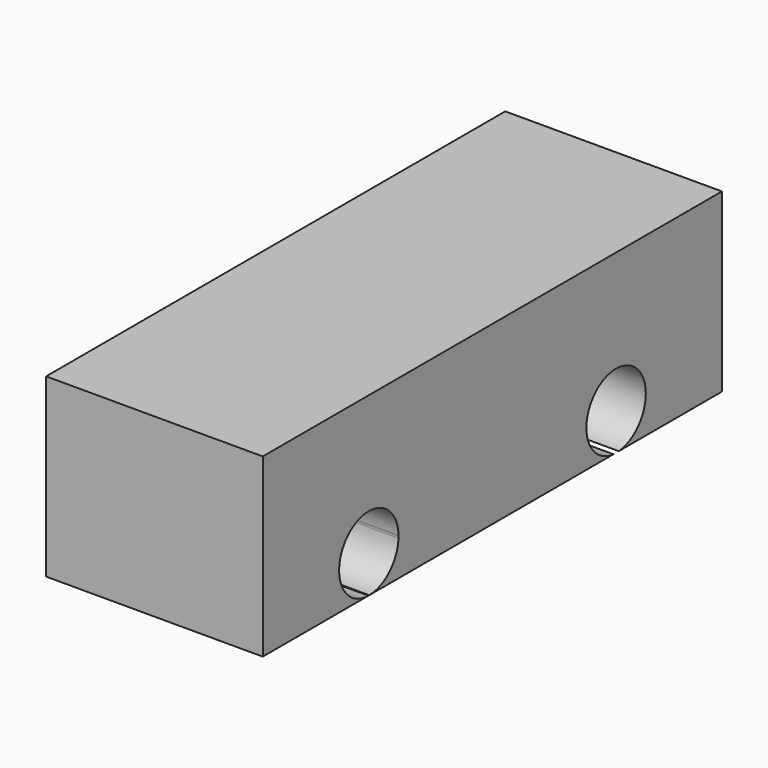
from build123d import *

# Parameters (mm, degrees)
F0_W          = 4330
F0_H          = 1330
F1_DEPTH      = 817.5
F1_DEPTH_BACK = 817.5
F5_DEPTH      = 400
F4_R          = 280
F6_DEPTH      = 400


with BuildPart() as f1:
    # F0 (on Right) → F1 (new body, two sides)
    with BuildSketch(Plane.YZ) as f1_sk:
        Rectangle(F0_W, F0_H)
    extrude(amount=F1_DEPTH)
    extrude(f1_sk.sketch, amount=-F1_DEPTH_BACK)

    # F2 (on face) → F5 (cut)
    with BuildSketch(Plane.YZ.offset(817.5)):
        with BuildLine():
            ThreePointArc((-885.329324, -398.604495), (-885.082343, -391.818398), (-885, -385.028307))
            ThreePointArc((-885, -385.028307), (-885.008978, -382.786061), (-885.035912, -380.543959))
            ThreePointArc((-885.035912, -380.543959), (-885.325431, -389.571907), (-885.329324, -398.604495))
        make_face()
        with BuildLine():
            ThreePointArc((-885.329324, -398.604495), (-885.325431, -389.571907), (-885.035912, -380.543959))
            ThreePointArc((-885.035912, -380.543959), (-1149.126052, -105.478637), (-1442.656804, -348.880015))
            ThreePointArc((-1442.656804, -348.880015), (-1442.297078, -376.180432), (-1444.39648, -403.402384))
            ThreePointArc((-1444.39648, -403.402384), (-1162.597141, -665.017996), (-885.329324, -398.604495))
        make_face()
        with BuildLine():
            ThreePointArc((-1444.39648, -403.402384), (-1442.297078, -376.180432), (-1442.656804, -348.880015))
            ThreePointArc((-1442.656804, -348.880015), (-1444.857576, -376.098733), (-1444.39648, -403.402384))
        make_face()
    extrude(amount=-F5_DEPTH, mode=Mode.SUBTRACT)

    # F4 (on face) → F6 (cut)
    with BuildSketch(Plane.YZ.offset(817.5)):
        with Locations((1167.056084, -386.134654)):
            Circle(F4_R)
    extrude(amount=-F6_DEPTH, mode=Mode.SUBTRACT)


solid = f1.part
